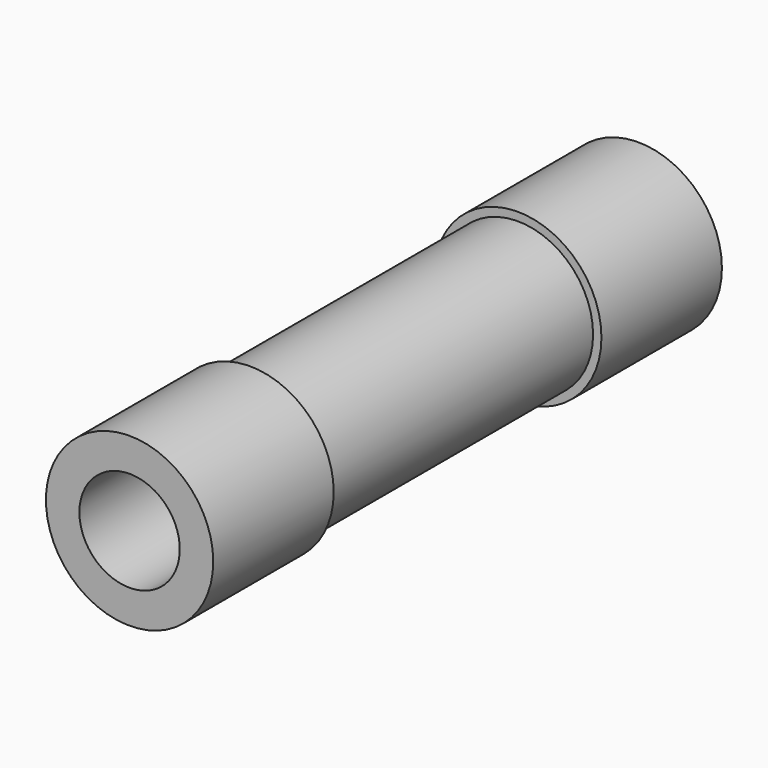
from build123d import *

# Parameters (mm, degrees)
F0_R     = 5
F2_DEPTH = 9
F1_R     = 4.5
F3_DEPTH = 19
F6_R     = 3
F7_DEPTH = 38


with BuildPart() as f2:
    # F0 (on Front) → F2 (new body)
    with BuildSketch(Plane.XZ):
        Circle(F0_R)
    extrude(amount=F2_DEPTH)

    # F1 (on face) → F3 (join)
    with BuildSketch(Plane.XZ):
        Circle(F1_R)
    extrude(amount=F3_DEPTH)

    # F5: F2 across plane


with BuildPart() as f2_1:
    add(f2.part)
    add(f2.part.mirror(Plane.XZ.offset(19)))

    # F6 (on face) → F7 (cut)
    with BuildSketch(Plane(origin=(0, 0, 0), x_dir=(-1, 0, 0), z_dir=(0, 1, 0))):
        Circle(F6_R)
    extrude(amount=-F7_DEPTH, mode=Mode.SUBTRACT)


solid = f2_1.part
